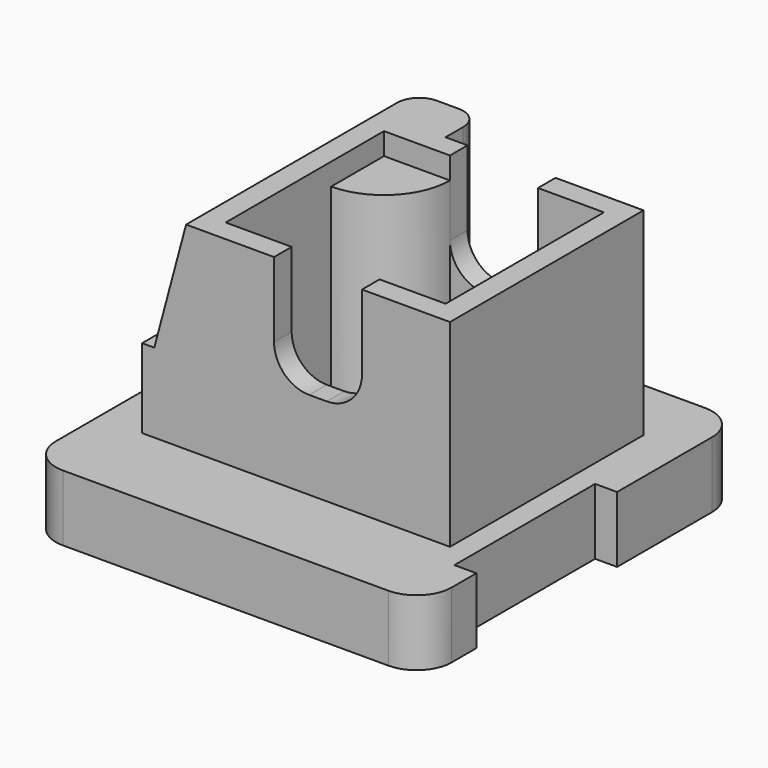
from build123d import *

# Parameters (mm, degrees)
F1_DEPTH  = 55
F2_R      = 8
F3_W      = 90
F3_H      = 90
F4_DEPTH  = 15
F5_R      = 8
F6_W      = 15
F6_H      = 10
F7_DEPTH  = 45
F8_R      = 5
F9_W      = 50
F9_H      = 45
F10_DEPTH = 50
F12_DEPTH = 45
F13_W     = 5
F13_H     = 40
F14_DEPTH = 15.001
F16_DEPTH = 5


with BuildPart() as f1:
    # F0 (on Front) → F1 (new body)
    with BuildSketch(Plane.XZ):
        Polygon((0, 18), (0, 0), (70, 0), (70, 45), (50, 45), (50, 20), (30, 20), (30, 45), (10, 45), (2.765372, 18), align=None)
    extrude(amount=-F1_DEPTH)

    # F2
    f2_edges = [f1.edges().sort_by_distance(p)[0] for p in [
        (30, 27.5, 20),
        (50, 27.5, 20),
    ]]
    fillet(f2_edges, radius=F2_R)

    # F3 (on face) → F4 (join)
    with BuildSketch(Plane(origin=(0, 0, 0), x_dir=(1, 0, 0), z_dir=(0, 0, -1))):
        with Locations((35, -25)):
            Rectangle(F3_W, F3_H)
    extrude(amount=F4_DEPTH)

    # F5
    f5_edges = [f1.edges().sort_by_distance(p)[0] for p in [
        (-10, -20, -7.5),
        (80, -20, -7.5),
        (-10, 70, -7.5),
        (80, 70, -7.5),
    ]]
    fillet(f5_edges, radius=F5_R)

    # F6 (on face) → F7 (join, through all)
    with BuildSketch(Plane.XY.offset(45)):
        with Locations((17.5, 60)):
            Rectangle(F6_W, F6_H)
    extrude(amount=-F7_DEPTH)

    # F8
    f8_edges = [f1.edges().sort_by_distance(p)[0] for p in [
        (10, 65, 22.5),
        (25, 65, 22.5),
    ]]
    fillet(f8_edges, radius=F8_R)

    # F9 (on face) → F10 (cut)
    with BuildSketch(Plane.XY.offset(45)):
        with Locations((40, 27.5)):
            Rectangle(F9_W, F9_H)
    extrude(amount=-F10_DEPTH, mode=Mode.SUBTRACT)

    # F11 (on face) → F12 (join)
    with BuildSketch(Plane.XY.offset(-5)):
        with BuildLine():
            ThreePointArc((15, 35), (25.606602, 39.393398), (30, 50))
            Line((30, 50), (15, 50))
            Line((15, 50), (15, 35))
        make_face()
    extrude(amount=F12_DEPTH)

    # F13 (on face) → F14 (cut, through all)
    with BuildSketch(Plane.XY):
        with Locations((-7.5, 35)):
            Rectangle(F13_W, F13_H)
        with Locations((77.5, 15)):
            Rectangle(F13_W, F13_H)
    extrude(amount=-F14_DEPTH, mode=Mode.SUBTRACT)

    # F15 (on face) → F16 (cut)
    with BuildSketch(Plane(origin=(0, 0, -15), x_dir=(1, 0, 0), z_dir=(0, 0, -1))):
        Polygon((60, 5), (0, 5), (60, -65), align=None)
    extrude(amount=-F16_DEPTH, mode=Mode.SUBTRACT)


solid = f1.part
